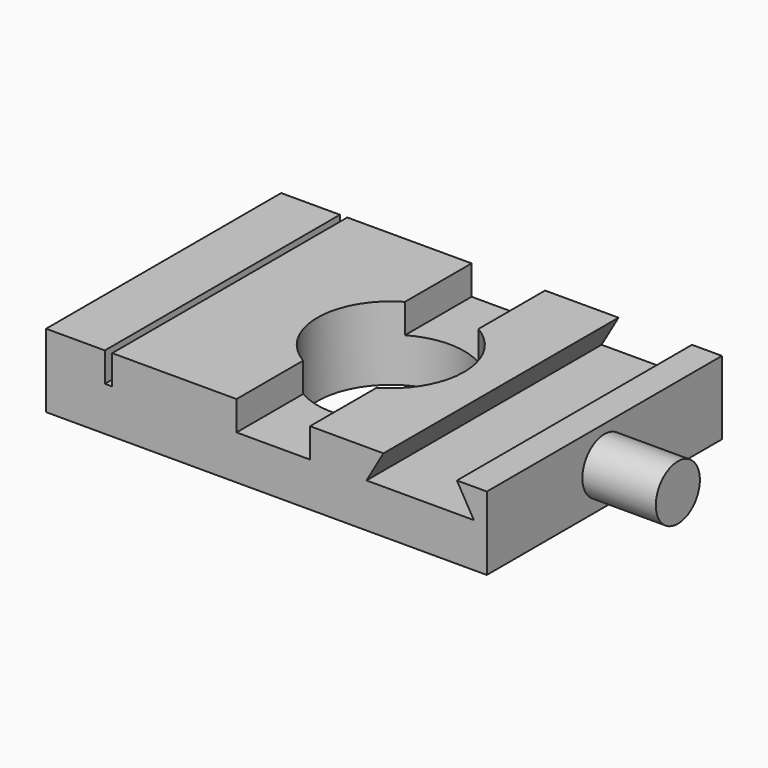
from build123d import *

# Parameters (mm, degrees)
F0_W     = 76.2
F0_H     = 50.8
F0_R     = 12.7
F1_DEPTH = 12.7
F2_W     = 1.27
F2_H     = 50.8
F3_DEPTH = 5.08
F5_DEPTH = 50.801
F6_R     = 4.7625
F7_DEPTH = 12.7


with BuildPart() as f1:
    # F0 (on Top) → F1 (new body)
    with BuildSketch(Plane.XY):
        Rectangle(F0_W, F0_H)
        with Locations((1.1745122029, 0)):
            Circle(F0_R, mode=Mode.SUBTRACT)
    extrude(amount=F1_DEPTH)

    # F2 (on face) → F3 (cut)
    with BuildSketch(Plane.XY.offset(12.7)):
        with Locations((-27.305, 0)):
            Rectangle(F2_W, F2_H)
        with BuildLine():
            Line((-5.1754877971, -10.9985226281), (-5.1754877971, -25.4))
            Line((-5.1754877971, -25.4), (7.5245122029, -25.4))
            Line((7.5245122029, -25.4), (7.5245122029, -10.9985226281))
            ThreePointArc((7.5245122029, -10.9985226281), (1.1745122029, -12.7), (-5.1754877971, -10.9985226281))
        make_face()
        with BuildLine():
            Line((7.5245122029, 25.4), (-5.1754877971, 25.4))
            Line((-5.1754877971, 25.4), (-5.1754877971, 10.9985226281))
            ThreePointArc((-5.1754877971, 10.9985226281), (1.1745122029, 12.7), (7.5245122029, 10.9985226281))
            Line((7.5245122029, 10.9985226281), (7.5245122029, 25.4))
        make_face()
    extrude(amount=-F3_DEPTH, mode=Mode.SUBTRACT)

    # F4 (on face) → F5 (cut, through all)
    with BuildSketch(Plane.XZ.offset(25.4)):
        Polygon((32.9245122029, 12.7), (20.2245122029, 12.7), (17.2915728354, 7.62), (35.8574515703, 7.62), align=None)
    extrude(amount=-F5_DEPTH, mode=Mode.SUBTRACT)

    # F6 (on face) → F7 (join)
    with BuildSketch(Plane.YZ.offset(38.1)):
        with Locations((0, 6.35)):
            Circle(F6_R)
    extrude(amount=F7_DEPTH)


solid = f1.part
